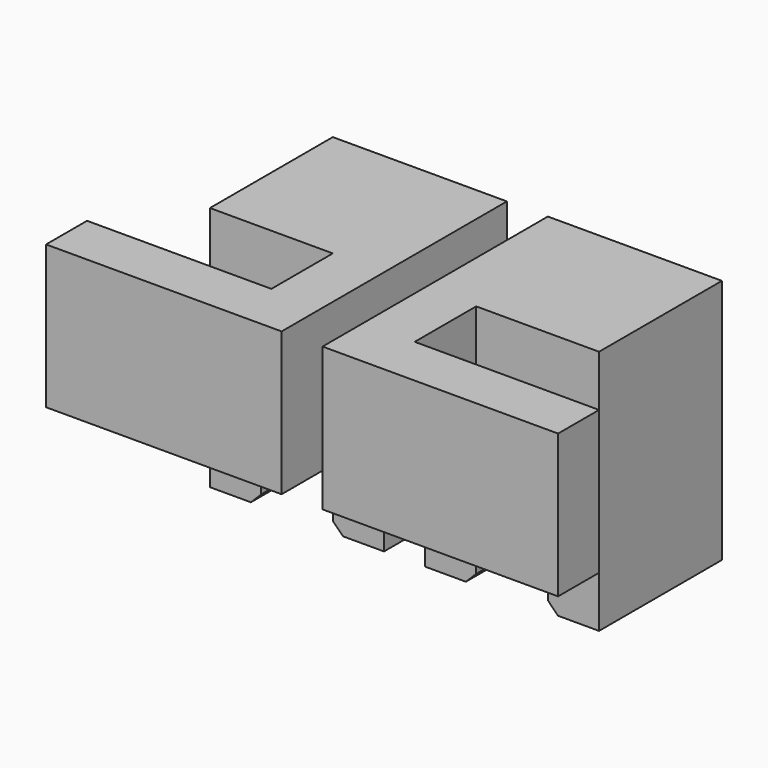
from build123d import *

# Parameters (mm, degrees)
F1_DEPTH = 3.75
F3_DEPTH = 7
F4_SIZE  = 0.5


with BuildPart() as f1:
    # F0 (on Front) → F1 (new body, symmetric)
    with BuildSketch(Plane.XZ):
        Polygon((-9.5, 0), (-7, 0), (-7, 9.5), (-3.5, 9.5), (-3.5, 0), (-1, 0), (-1, 12), (-9.5, 12), align=None)
    extrude(amount=F1_DEPTH, both=True)

    # F2 (on face) → F3 (join, through all)
    with BuildSketch(Plane.XY.offset(12)):
        Polygon((-1, -10), (-1, -3.75), (-3.5, -3.75), (-3.5, -7.5), (-12.5, -7.5), (-12.5, -10), align=None)
    extrude(amount=-F3_DEPTH)

    # F4
    f4_edges = [f1.edges().sort_by_distance(p)[0] for p in [
        (-3.5, 0, 0),
        (-7, 0, 0),
    ]]
    chamfer(f4_edges, length=F4_SIZE)


with BuildPart() as f5_1:
    # F5: instance of F1
    add(f1.part.mirror(Plane.YZ))


solid = Compound([f1.part, f5_1.part])
